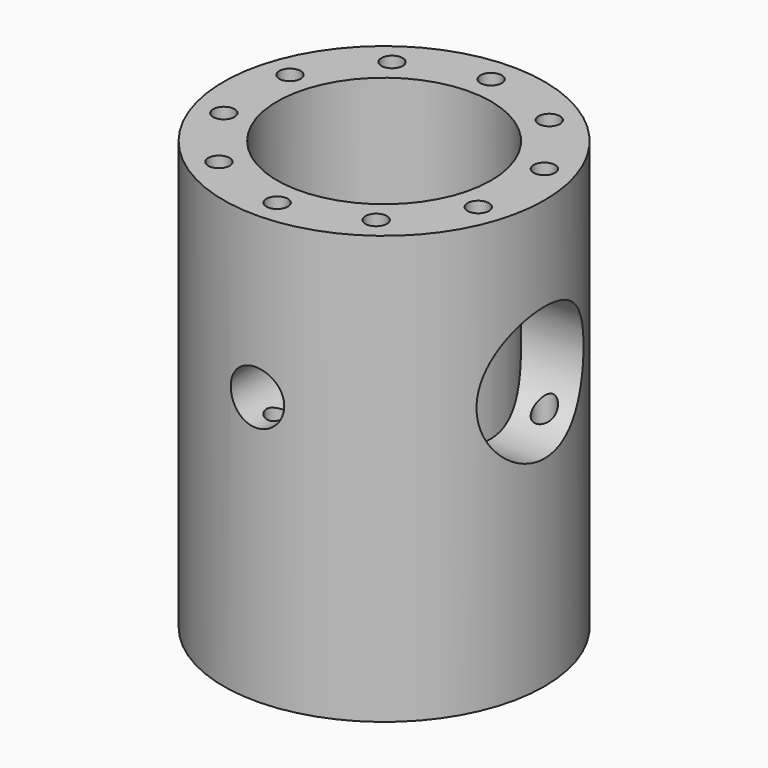
from build123d import *

# Parameters (mm, degrees)
F0_R         = 30
F0_R_2       = 20
F1_DEPTH     = 80
F2_R         = 2
F1_FACE1_R   = 30
F1_FACE1_R_2 = 20
F3_DEPTH     = 80.001
F4_R         = 12.5
F5_DEPTH     = 104.4892892241
F6_R         = 5
F7_DEPTH     = 60.4248270392


with BuildPart() as f1:
    # F0 (on Top) → F1 (new body)
    with BuildSketch(Plane.XY):
        Circle(F0_R)
        Circle(F0_R_2, mode=Mode.SUBTRACT)
    extrude(amount=F1_DEPTH)

    # F2 (on face) + F1_face1 (on face) → F3 (cut, through all)
    with BuildSketch(Plane.XY.offset(80)):
        with Locations((0, 25)):
            Circle(F2_R)
        with Locations((-14.6946313073, 20.2254248594)):
            Circle(F2_R)
        with Locations((-23.7764129074, 7.7254248594)):
            Circle(F2_R)
        with Locations((-23.7764129074, -7.7254248594)):
            Circle(F2_R)
        with Locations((-14.6946313073, -20.2254248594)):
            Circle(F2_R)
        with Locations((0, -25)):
            Circle(F2_R)
        with Locations((14.6946313073, -20.2254248594)):
            Circle(F2_R)
        with Locations((23.7764129074, -7.7254248594)):
            Circle(F2_R)
        with Locations((23.7764129074, 7.7254248594)):
            Circle(F2_R)
        with Locations((14.6946313073, 20.2254248594)):
            Circle(F2_R)
    with BuildSketch(Plane(origin=(0, 0, 0), x_dir=(1, 0, 0), z_dir=(0, 0, -1))):
        Circle(F1_FACE1_R)
        Circle(F1_FACE1_R_2, mode=Mode.SUBTRACT)
    extrude(amount=-F3_DEPTH, dir=(0, 0, 1), mode=Mode.SUBTRACT)

    # F4 (on Right) → F5 (cut, symmetric)
    with BuildSketch(Plane.YZ):
        with Locations((0, 50)):
            Circle(F4_R)
    extrude(amount=F5_DEPTH, both=True, mode=Mode.SUBTRACT)

    # F6 (on Front) → F7 (cut, symmetric)
    with BuildSketch(Plane.XZ):
        with Locations((0, 50)):
            Circle(F6_R)
    extrude(amount=F7_DEPTH, both=True, mode=Mode.SUBTRACT)


solid = f1.part
